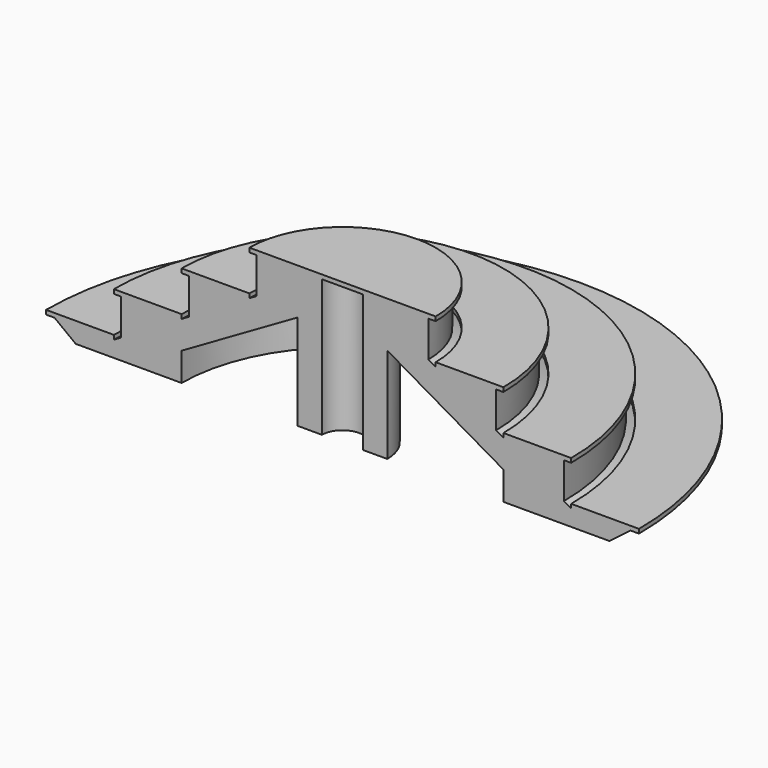
from build123d import *

# Parameters (mm, degrees)
F1_ANGLE = 180


with BuildPart() as f1:
    # F0 (on Front) → F1 (revolve)
    with BuildSketch(Plane.XZ):
        Polygon((1055, -583.5), (1055, 548.5), (515.621778, 548.5), (515.621778, 250.5), (455, 215.5), (-44.378222, 215.5), (-44.378222, -82.5), (-105, -117.5), (-604.378222, -117.5), (-604.378222, -415.5), (-665, -450.5), (-1155, -450.5), (-980, -583.5), (-105, -583.5), (-105, -348.440108), (855, 205.816151), (855, -583.5), align=None)
        Polygon((-1225, -450.5), (-1155, -450.5), (-665, -450.5), (-665, -415.5), (-1225, -415.5), align=None)
        Polygon((-604.378222, -117.5), (-105, -117.5), (-105, -82.5), (-665, -82.5), (-665, -117.5), align=None)
        Polygon((-44.378222, 215.5), (455, 215.5), (455, 250.5), (-105, 250.5), (-105, 215.5), align=None)
        Polygon((1225, 548.5), (1225, 583.5), (455, 583.5), (455, 548.5), (515.621778, 548.5), (1055, 548.5), align=None)
    revolve(axis=Axis((1225, 0, 566), (0, 0, -1)), revolution_arc=F1_ANGLE)


solid = f1.part
